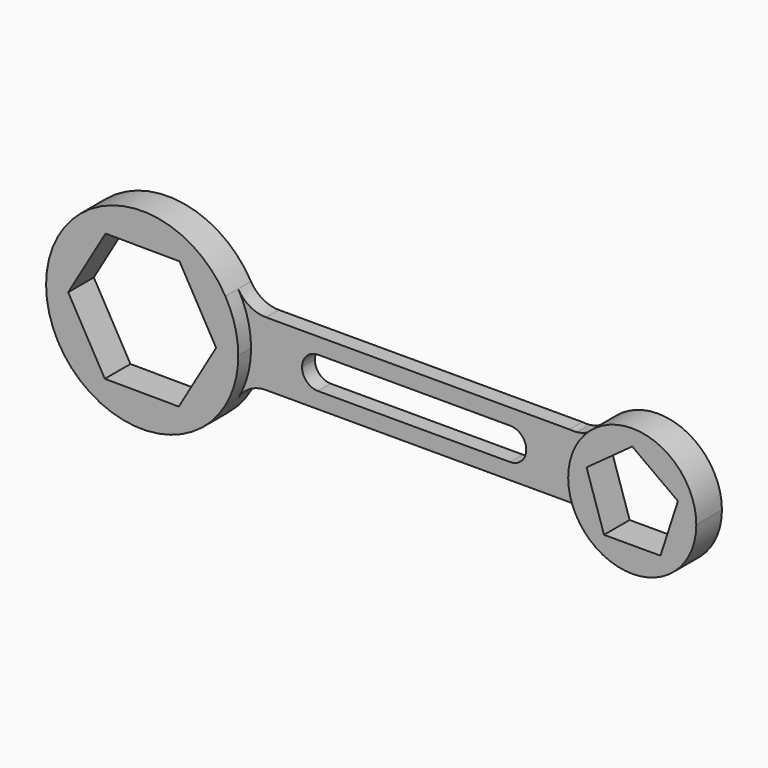
from build123d import *

# Parameters (mm, degrees)
F1_DEPTH = 127
F2_DEPTH = 254


with BuildPart() as f1:
    # F0 (on Front) → F1 (new body)
    with BuildSketch(Plane.XZ):
        with BuildLine():
            ThreePointArc((659.911358, 381), (736.03548, 197.220112), (762, 0))
            ThreePointArc((762, 0), (736.03548, -197.220112), (659.911358, -381))
            ThreePointArc((659.911358, -381), (752.88181, -288.029547), (879.88181, -254))
            Line((879.88181, -254), (2070.274641, -254))
            Line((2070.274641, -254), (2070.274641, -127))
            Line((2070.274641, -127), (1293.290402, -127))
            ThreePointArc((1293.290402, -127), (1203.487841, -89.802561), (1166.290402, 0))
            ThreePointArc((1166.290402, 0), (1203.487841, 89.802561), (1293.290402, 127))
            Line((1293.290402, 127), (2070.274641, 127))
            Line((2070.274641, 127), (2070.274641, 254))
            Line((2070.274641, 254), (879.88181, 254))
            ThreePointArc((879.88181, 254), (752.88181, 288.029547), (659.911358, 381))
        make_face()
        with BuildLine():
            Line((3287.981933, 254), (2070.274641, 254))
            Line((2070.274641, 254), (2070.274641, 127))
            Line((2070.274641, 127), (2817.290402, 127))
            ThreePointArc((2817.290402, 127), (2907.092964, 89.802561), (2944.290402, 0))
            ThreePointArc((2944.290402, 0), (2907.092964, -89.802561), (2817.290402, -127))
            Line((2817.290402, -127), (2070.274641, -127))
            Line((2070.274641, -127), (2070.274641, -254))
            Line((2070.274641, -254), (3318.588016, -254))
            ThreePointArc((3318.588016, -254), (3422.283082, -276.130784), (3507.908438, -338.666667))
            ThreePointArc((3507.908438, -338.666667), (3378.549832, -0.747645), (3506.913219, 337.550677))
            ThreePointArc((3506.913219, 337.550677), (3434.261335, 280.963876), (3346.208443, 254))
            ThreePointArc((3346.208443, 254), (3317.095188, 252.326016), (3287.981933, 254))
        make_face()
    extrude(amount=F1_DEPTH)

    # F0 (on Front) → F2 (join)
    with BuildSketch(Plane.XZ):
        with BuildLine():
            ThreePointArc((659.911358, -381), (736.03548, -197.220112), (762, 0))
            ThreePointArc((762, 0), (736.03548, 197.220112), (659.911358, 381))
            ThreePointArc((659.911358, 381), (-762, 0), (659.911358, -381))
        make_face()
        Polygon((-296.174974, -506.325703), (-586.578409, 3.3322), (-290.403435, 509.657903), (296.174974, 506.325703), (586.578409, -3.3322), (290.403435, -509.657903), align=None, mode=Mode.SUBTRACT)
        with BuildLine():
            ThreePointArc((3506.913219, 337.550677), (3378.549832, -0.747645), (3507.908438, -338.666667))
            ThreePointArc((3507.908438, -338.666667), (4067.814904, -474.559558), (4394.549282, 0))
            ThreePointArc((4394.549282, 0), (4067.116278, 474.825821), (3506.913219, 337.550677))
        make_face()
        Polygon((4248.901815, 117.735475), (4110.495463, -308.235475), (3662.603101, -308.235475), (3524.19675, 117.735475), (3886.549282, 381), align=None, mode=Mode.SUBTRACT)
    extrude(amount=F2_DEPTH)


solid = f1.part
